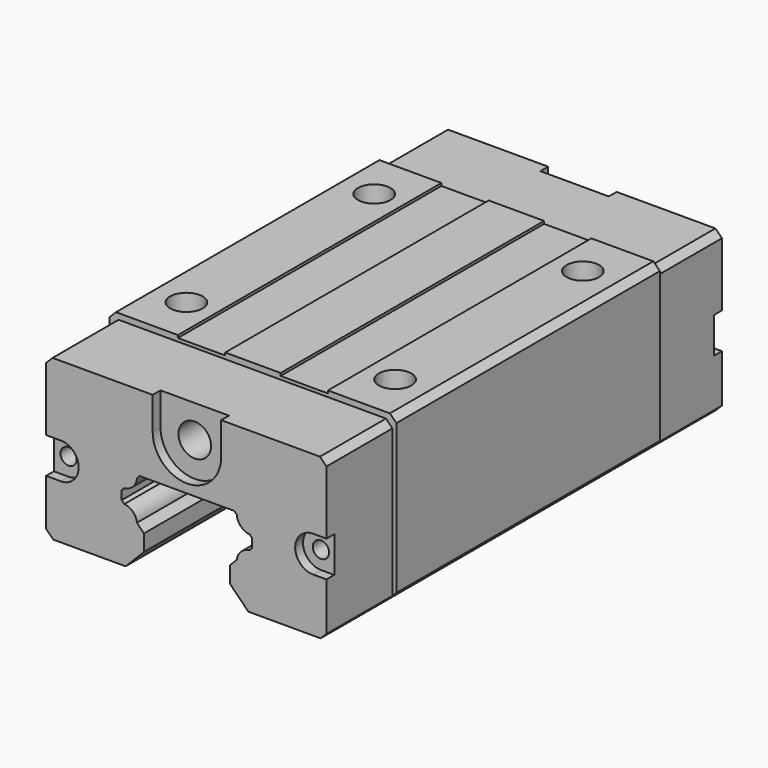
from build123d import *

# Parameters (mm, degrees)
PAD_DEPTH            = 25.25
PAD001_DEPTH         = 37.9
POCKET_DEPTH         = 1.5
SKETCH004_R          = 1.25
SKETCH004_R_2        = 2.5
POCKET001_DEPTH      = 8
POCKET002_DEPTH      = 37.901
POCKET002_DEPTH_BACK = 37.901
SKETCH001_R          = 2.5
POCKET003_DEPTH      = 9


with BuildPart() as part:
    # Sketch → Pad (new body, symmetric)
    with BuildSketch(Plane.XZ):
        Polygon((-21, 30), (-11.5, 30), (-11.5, 29.6), (-4.25, 29.6), (-4.25, 30), (4.25, 30), (4.25, 29.6), (11.5, 29.6), (11.5, 30), (21, 30), (22, 29), (22, 6.1), (20.5, 4.6), (-20.5, 4.6), (-21.6, 5.7), (-21.6, 22), (-22, 22), (-22, 29), align=None)
    extrude(amount=PAD_DEPTH, both=True)

    # Sketch002 → Pad001 (join, symmetric)
    with BuildSketch(Plane.XZ):
        Polygon((-20.6, 29.1), (20.4, 29.1), (21.4, 28.1), (21.4, 5.5), (20.5, 4.6), (-20.5, 4.6), (-21.6, 5.7), (-21.6, 28.1), align=None)
    extrude(amount=PAD001_DEPTH, both=True)

    # Sketch003 (on Face7 of Pad001) → Pocket (cut)
    with BuildSketch(Plane.XZ.offset(37.9)):
        with BuildLine():
            ThreePointArc((-5.25, 24.1), (0, 18.85), (5.25, 24.1))
            Line((5.25, 24.1), (5.25, 29.1))
            Line((-5.25, 29.1), (5.25, 29.1))
            Line((-5.25, 24.1), (-5.25, 29.1))
        make_face()
        with BuildLine():
            ThreePointArc((-19.35, 12.85), (-16.6, 15.6), (-19.35, 18.35))
            Line((-19.35, 18.35), (-21.6, 18.35))
            Line((-21.6, 18.35), (-21.6, 12.85))
            Line((-19.35, 12.85), (-21.6, 12.85))
        make_face()
        with BuildLine():
            ThreePointArc((19.35, 18.35), (16.6, 15.6), (19.35, 12.85))
            Line((19.35, 12.85), (21.4, 12.85))
            Line((21.4, 18.35), (21.4, 12.85))
            Line((19.35, 18.35), (21.4, 18.35))
        make_face()
    pocket = extrude(amount=-POCKET_DEPTH, mode=Mode.SUBTRACT)

    # Sketch004 (on Face42 of Pocket) → Pocket001 (cut)
    with BuildSketch(Plane.XZ.offset(36.4)):
        with Locations((-19.35, 15.6)):
            Circle(SKETCH004_R)
        with Locations((19.35, 15.6)):
            Circle(SKETCH004_R)
        with Locations((0, 24.1)):
            Circle(SKETCH004_R_2)
    pocket001 = extrude(amount=-POCKET001_DEPTH, mode=Mode.SUBTRACT)

    # Mirrored: Pocket001, Pocket across XZ
    add(pocket001.mirror(Plane.XZ), mode=Mode.SUBTRACT)
    add(pocket.mirror(Plane.XZ), mode=Mode.SUBTRACT)

    # Sketch010 → Pocket002 (cut, two sides)
    with BuildSketch(Plane.XZ) as pocket002_sk:
        with BuildLine():
            Line((-9, 0), (-10, 1))
            Line((-10, 1), (-10, 4))
            Line((-10, 4), (-6.6, 7.45))
            Line((-6.6, 7.45), (-6.6, 9.95))
            Line((-6.6, 9.95), (-7.659962205, 11.05))
            ThreePointArc((-7.659962205, 11.05), (-8.2943527546, 12.3411969817), (-9.6, 12.9452882706))
            Line((-9.6, 12.9452882706), (-10, 13.3452882706))
            Line((-10, 13.3452882706), (-10, 14.6952882706))
            Line((-10, 14.6952882706), (-9.6, 15.0952882706))
            ThreePointArc((-9.6, 15.0952882706), (-8.2555446657, 15.738271817), (-7.65, 17.1))
            Line((-7.65, 17.1), (-7.25, 17.5))
            Line((-7.25, 17.5), (0, 17.5))
            Line((0, 17.5), (7.25, 17.5))
            Line((7.25, 17.5), (7.65, 17.1))
            ThreePointArc((7.65, 17.1), (8.2555446657, 15.738271817), (9.6, 15.0952882706))
            Line((9.6, 15.0952882706), (10, 14.6952882706))
            Line((10, 14.6952882706), (10, 13.3452882706))
            Line((10, 13.3452882706), (9.6, 12.9452882706))
            ThreePointArc((9.6, 12.9452882706), (8.2943527546, 12.3411969817), (7.659962205, 11.05))
            Line((7.659962205, 11.05), (6.6, 9.95))
            Line((6.6, 9.95), (6.6, 7.45))
            Line((6.6, 7.45), (10, 4))
            Line((10, 4), (10, 1))
            Line((10, 1), (9, 0))
            Line((4, 0), (9, 0))
            Line((4, 0.4), (4, 0))
            Line((-4, 0.4), (4, 0.4))
            Line((-4, 0), (-4, 0.4))
            Line((-9, 0), (-4, 0))
        make_face()
    extrude(amount=-POCKET002_DEPTH, mode=Mode.SUBTRACT)
    extrude(pocket002_sk.sketch, amount=POCKET002_DEPTH_BACK, mode=Mode.SUBTRACT)

    # Sketch001 (on Face11 of Pad) → Pocket003 (cut)
    with BuildSketch(Plane(origin=(0, 0, 30), x_dir=(-1, 0, 0), z_dir=(0, 0, 1))):
        with Locations((-16, 18)):
            Circle(SKETCH001_R)
        with Locations((-16, -18)):
            Circle(SKETCH001_R)
        with Locations((16, 18)):
            Circle(SKETCH001_R)
        with Locations((16, -18)):
            Circle(SKETCH001_R)
    extrude(amount=-POCKET003_DEPTH, mode=Mode.SUBTRACT)


solid = part.part
